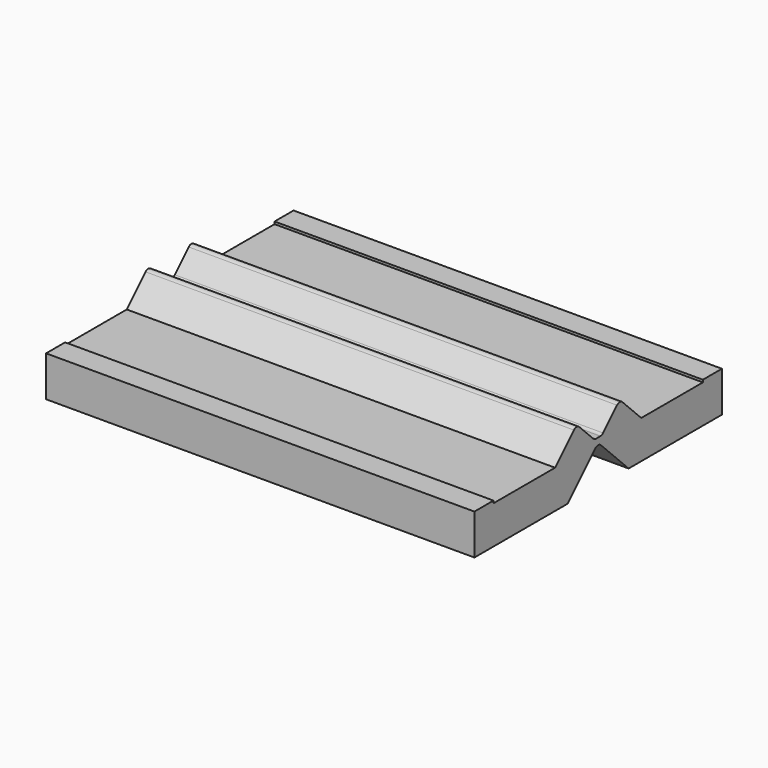
from build123d import *

# Parameters (mm, degrees)
F1_DEPTH = 18
F5_R     = 0.2


with BuildPart() as f1:
    # F0 (on Right) → F1 (new body)
    with BuildSketch(Plane.YZ):
        Polygon((-32.2547115611, 1.6), (-32.2547115611, 0), (-27.3547115611, 0), (-25.7547115611, 1.6), (-25.7547115611, 1.8), (-25.9547115611, 1.8), (-26.886082411, 2.7313708499), (-28.0174532609, 1.6), (-31.2547115611, 1.6), (-31.2547115611, 1.7), (-32.2547115611, 1.7), align=None)
    extrude(amount=F1_DEPTH)

    # F4: F1 across plane


with BuildPart() as f1_1:
    add(f1.part)
    add(f1.part.mirror(Plane.XZ.offset(25.7547115611)))

    # F5
    f5_edges = [f1_1.edges().sort_by_distance(p)[0] for p in [
        (9, -25.554712, 1.8),
        (9, -25.954712, 1.8),
        (9, -25.754712, 1.6),
        (9, -24.623341, 2.731371),
        (9, -26.886082, 2.731371),
    ]]
    fillet(f5_edges, radius=F5_R)


solid = f1_1.part
